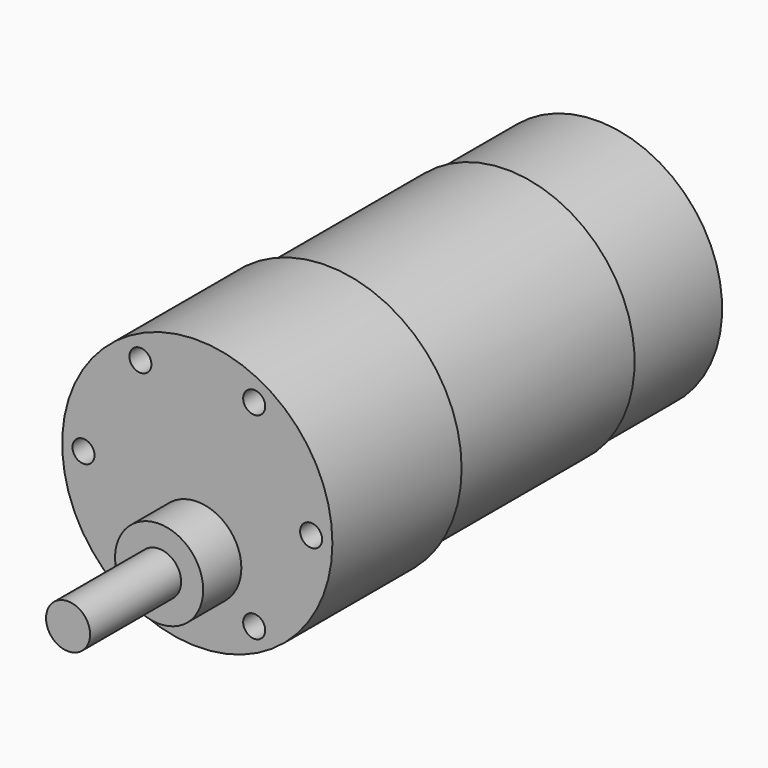
from build123d import *

# Parameters (mm, degrees)
F0_R      = 18.4
F1_DEPTH  = 22
F2_R      = 17.4
F3_DEPTH  = 30.7
F4_R      = 17
F5_DEPTH  = 15.4
F6_R      = 6
F7_DEPTH  = 6.5
F8_R      = 3
F9_DEPTH  = 15.5
F10_R     = 1.5
F11_DEPTH = 4


with BuildPart() as f1:
    # F0 (on Front) → F1 (new body)
    with BuildSketch(Plane.XZ):
        Circle(F0_R)
    extrude(amount=-F1_DEPTH)

    # F2 (on face) → F3 (join)
    with BuildSketch(Plane(origin=(0, 22, 0), x_dir=(-1, 0, 0), z_dir=(0, 1, 0))):
        Circle(F2_R)
    extrude(amount=F3_DEPTH)

    # F4 (on face) → F5 (join)
    with BuildSketch(Plane(origin=(0, 52.7, 0), x_dir=(-1, 0, 0), z_dir=(0, 1, 0))):
        Circle(F4_R)
    extrude(amount=F5_DEPTH)

    # F6 (on face) → F7 (join)
    with BuildSketch(Plane.XZ):
        with Locations((0, -7)):
            Circle(F6_R)
    extrude(amount=F7_DEPTH)

    # F8 (on face) → F9 (join)
    with BuildSketch(Plane.XZ.offset(6.5)):
        with Locations((0, -7)):
            Circle(F8_R)
    extrude(amount=F9_DEPTH)

    # F10 (on face) → F11 (cut)
    with BuildSketch(Plane.XZ):
        with Locations((-15.5, 0)):
            Circle(F10_R)
        with Locations((-7.75, 13.423394)):
            Circle(F10_R)
        with Locations((7.75, 13.423394)):
            Circle(F10_R)
        with Locations((15.5, 0)):
            Circle(F10_R)
        with Locations((-7.75, -13.423394)):
            Circle(F10_R)
        with Locations((7.75, -13.423394)):
            Circle(F10_R)
    extrude(amount=-F11_DEPTH, mode=Mode.SUBTRACT)


solid = f1.part
